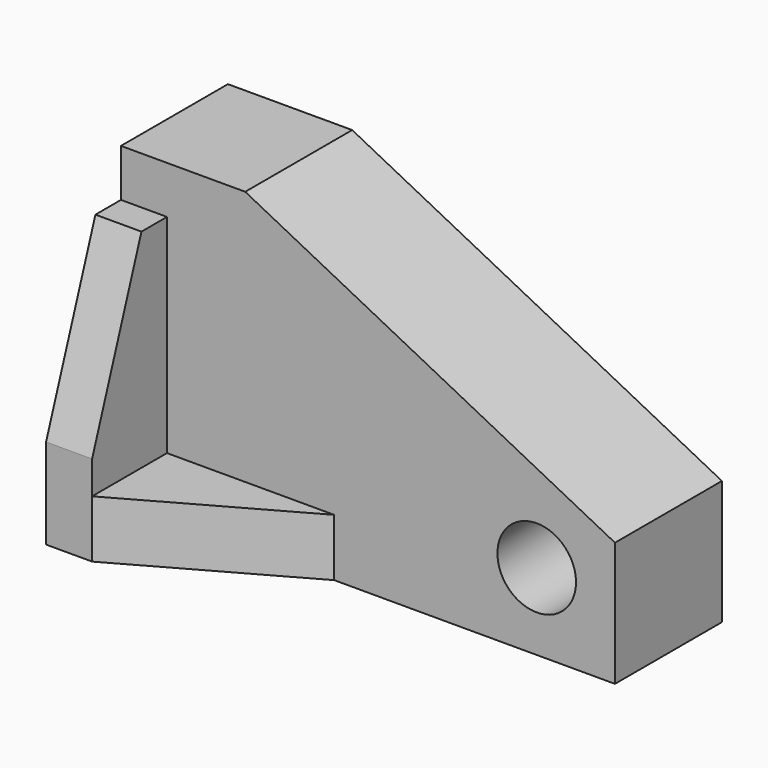
from build123d import *

# Parameters (mm, degrees)
F0_W      = 93.855083
F0_H      = 59.460982
F1_DEPTH  = 25.4
F3_DEPTH  = 25.4
F4_W      = 8.744262
F4_H      = 50.425246
F5_DEPTH  = 17.78
F7_DEPTH  = 25.4
F9_DEPTH  = 10.922
F10_R     = 7.465412
F11_DEPTH = 25.4


with BuildPart() as f1:
    # F0 (on Front) → F1 (new body)
    with BuildSketch(Plane.XZ):
        with Locations((6.412457, 0.437213)):
            Rectangle(F0_W, F0_H)
    extrude(amount=F1_DEPTH)

    # F2 (on face) → F3 (cut)
    with BuildSketch(Plane.XZ.offset(25.4)):
        Polygon((53.339999, 30.167704), (-16.905574, 30.167704), (53.339999, -5.683771), align=None)
    extrude(amount=-F3_DEPTH, mode=Mode.SUBTRACT)

    # F4 (on face) → F5 (join)
    with BuildSketch(Plane.XZ.offset(25.4)):
        with Locations((-36.142953, -4.080655)):
            Rectangle(F4_W, F4_H)
    extrude(amount=F5_DEPTH)

    # F6 (on face) → F7 (cut)
    with BuildSketch(Plane.YZ.offset(-31.770822)):
        Polygon((-43.18, -12.12093), (-31.462505, 21.131968), (-43.18, 21.131968), align=None)
    extrude(amount=-F7_DEPTH, mode=Mode.SUBTRACT)

    # F8 (on face) → F9 (join)
    with BuildSketch(Plane(origin=(0, 0, -29.293278), x_dir=(1, 0, 0), z_dir=(0, 0, -1))):
        Polygon((0, 25.4), (-31.770822, 43.18), (-31.770822, 25.4), align=None)
    extrude(amount=-F9_DEPTH)

    # F10 (on face) → F11 (cut)
    with BuildSketch(Plane.XZ.offset(25.4)):
        with Locations((38.474757, -14.719509)):
            Circle(F10_R)
    extrude(amount=-F11_DEPTH, mode=Mode.SUBTRACT)


solid = f1.part
